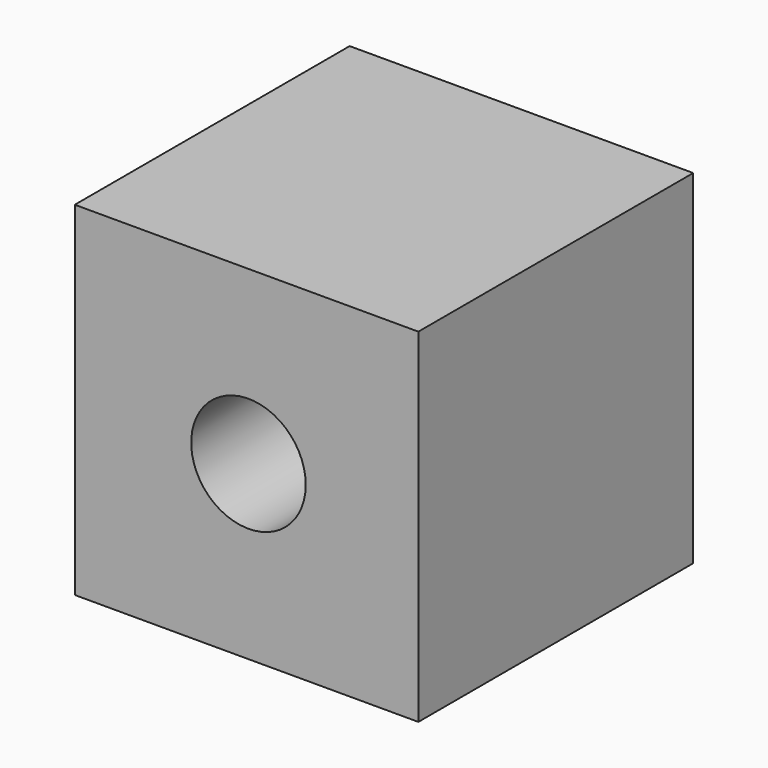
from build123d import *

# Parameters (mm, degrees)
F0_W     = 152.4
F0_H     = 152.4
F1_DEPTH = 152.4
F2_R     = 25.4
F3_DEPTH = 152.4


with BuildPart() as f1:
    # F0 (on Front) → F1 (new body)
    with BuildSketch(Plane.XZ):
        with Locations((-0.841655, -0.106275)):
            Rectangle(F0_W, F0_H)
    extrude(amount=F1_DEPTH)

    # F2 (on face) → F3 (cut)
    with BuildSketch(Plane.XZ.offset(152.4)):
        Circle(F2_R)
    extrude(amount=-F3_DEPTH, mode=Mode.SUBTRACT)


solid = f1.part
